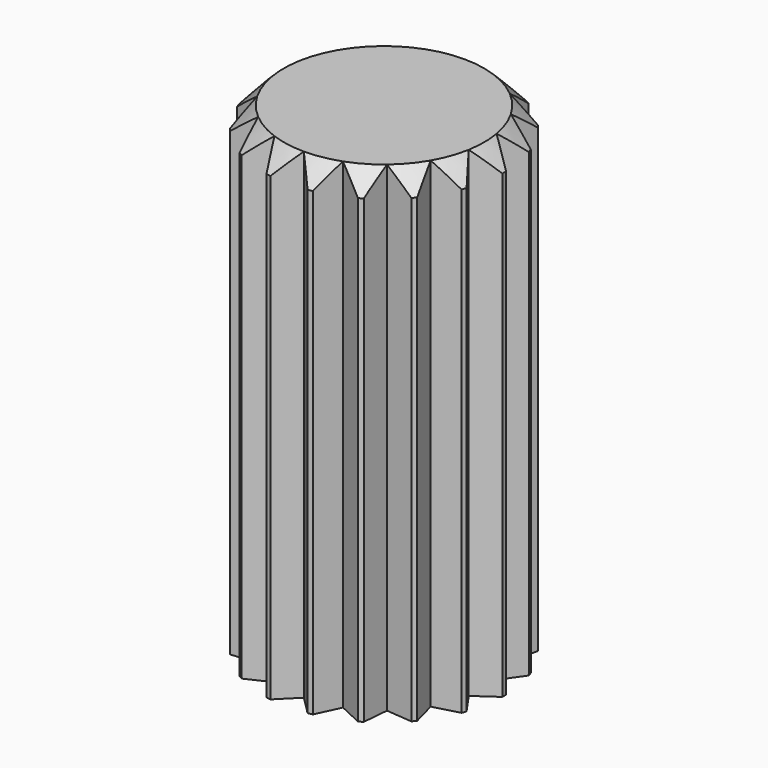
from build123d import *

# Parameters (mm, degrees)
SKETCH009_R           = 3
PAD006_DEPTH          = 12
CHAMFER001_SIZE       = 0.5
POCKET002_DEPTH       = 12
POLARPATTERN001_COUNT = 18


with BuildPart() as part:
    # Sketch009 → Pad006 (new body)
    with BuildSketch(Plane(origin=(0, 0, 22.1), x_dir=(0, 1, 0), z_dir=(0, 0, 1))):
        Circle(SKETCH009_R)
    extrude(amount=PAD006_DEPTH)

    # Chamfer001
    chamfer001_edges = [part.edges().sort_by_distance(p)[0] for p in [
        (0, -3, 34.1),
    ]]
    chamfer(chamfer001_edges, length=CHAMFER001_SIZE)

    # Sketch011 (on Face4 of Chamfer001) → Pocket002 (cut)
    with BuildSketch(Plane.XY.offset(34.1)):
        Polygon((0, 2.5), (2.617639, 5.117639), (-2.617639, 5.117639), align=None)
    pocket002 = extrude(amount=-POCKET002_DEPTH, mode=Mode.SUBTRACT)

    # PolarPattern001: Pocket002 ×18 about axis
    polarpattern001_axis = Axis((0, 0, 34.1), (0, 0, 1))
    for i in range(1, POLARPATTERN001_COUNT):
        add(pocket002.rotate(polarpattern001_axis, i * 360 / POLARPATTERN001_COUNT), mode=Mode.SUBTRACT)


solid = part.part
